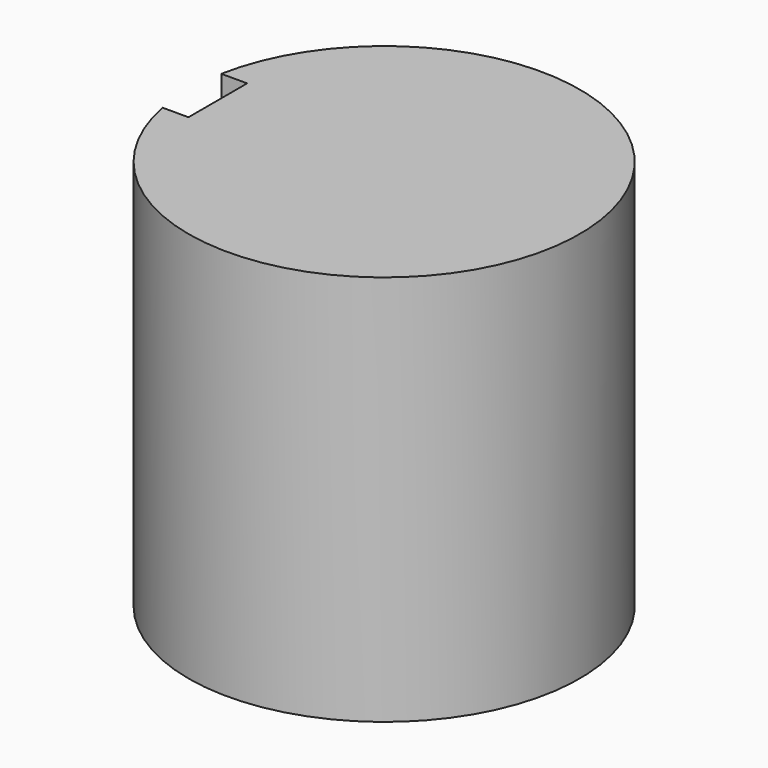
from build123d import *

# Parameters (mm, degrees)
F0_R     = 40
F1_DEPTH = 80
F3_DEPTH = 7.5


with BuildPart() as f1:
    # F0 (on Top) → F1 (new body)
    with BuildSketch(Plane.XY):
        Circle(F0_R)
    extrude(amount=F1_DEPTH)

    # F2 (on Front) → F3 (cut, symmetric)
    with BuildSketch(Plane.XZ):
        with BuildLine():
            Line((-40, 80), (-40, 0))
            Line((-40, 0), (6.54234, 0))
            Line((6.54234, 0), (6.54234, 18.178894))
            Line((6.54234, 18.178894), (-8.40058, 16.871557))
            ThreePointArc((-8.40058, 16.871557), (-17.49097, 6.038053), (-28.324474, 15.128443))
            Line((-28.324474, 15.128443), (-34, 80))
            Line((-34, 80), (-40, 80))
        make_face()
    extrude(amount=F3_DEPTH, both=True, mode=Mode.SUBTRACT)


solid = f1.part
